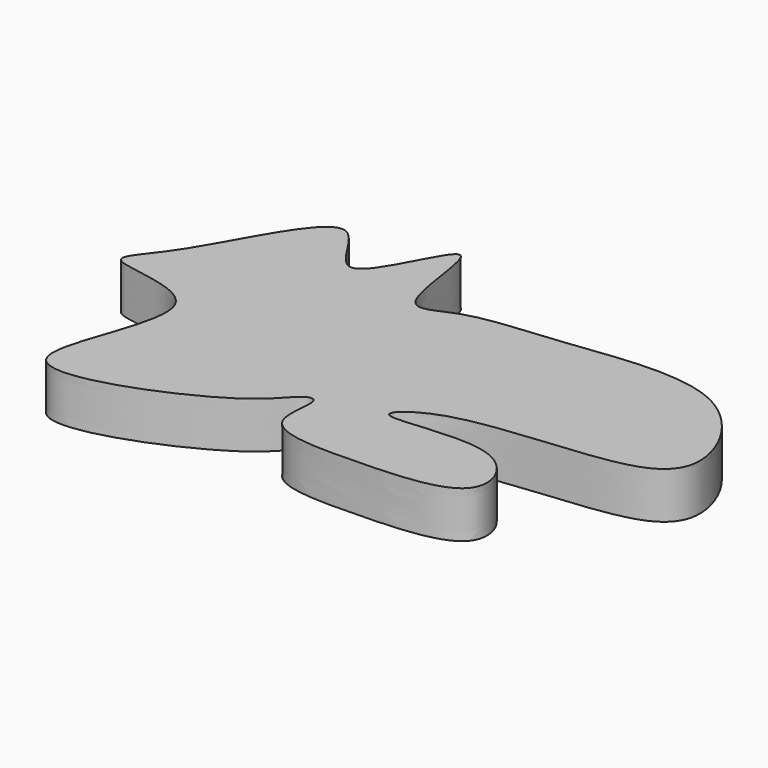
from build123d import *

# Parameters (mm, degrees)
F1_DEPTH = 25.4


with BuildPart() as f1:
    # F0 (on Top) → F1 (new body)
    with BuildSketch(Plane.XY):
        with BuildLine():
            add(Edge.make_bspline(
                [(-103.6536321044, 37.226151675), (-99.2788590021, 31.0349594312), (-80.4774977163, 44.452238187), (-33.4469163714, 44.9218828775), (54.1786316744, 61.9531255549), (90.3877338208, 0.0344843806), (69.2241078997, -31.4243762292), (-25.2209657853, -27.3838027559), (-62.8057105484, -60.4429748104), (14.3527632116, -39.853588477), (35.2283215254, -91.275841456), (-31.0368964815, -94.3137301219), (-88.3485719254, -94.5236827979), (-76.7595451336, -59.2474992744), (-88.5018428295, -60.2784203955), (-98.9874703193, -83.079436998), (-233.3182670015, -137.0679148583), (-151.1578617252, -12.8831038996), (-240.5739783311, -17.2376372413), (-207.9363398313, 8.9025216396), (-169.6684302399, 101.7391322553), (-144.1324915664, 15.5736885865), (-110.1286778781, 118.7270825525), (-110.3402296557, 46.6890449334), (-103.6536321044, 37.226151675)],
                knots=[0, 0, 0, 0, 0.0307692862, 0.07943925, 0.1421449534, 0.1932751434, 0.2290500152, 0.2965397995, 0.3290695972, 0.3800030079, 0.4183257639, 0.4695324458, 0.5173256761, 0.5500099689, 0.5652073622, 0.6011027866, 0.6662609972, 0.7255082304, 0.771972411, 0.8067092265, 0.8655545114, 0.9060672687, 0.9529708561, 1, 1, 1, 1], degree=3))
        make_face()
    extrude(amount=F1_DEPTH)


solid = f1.part
